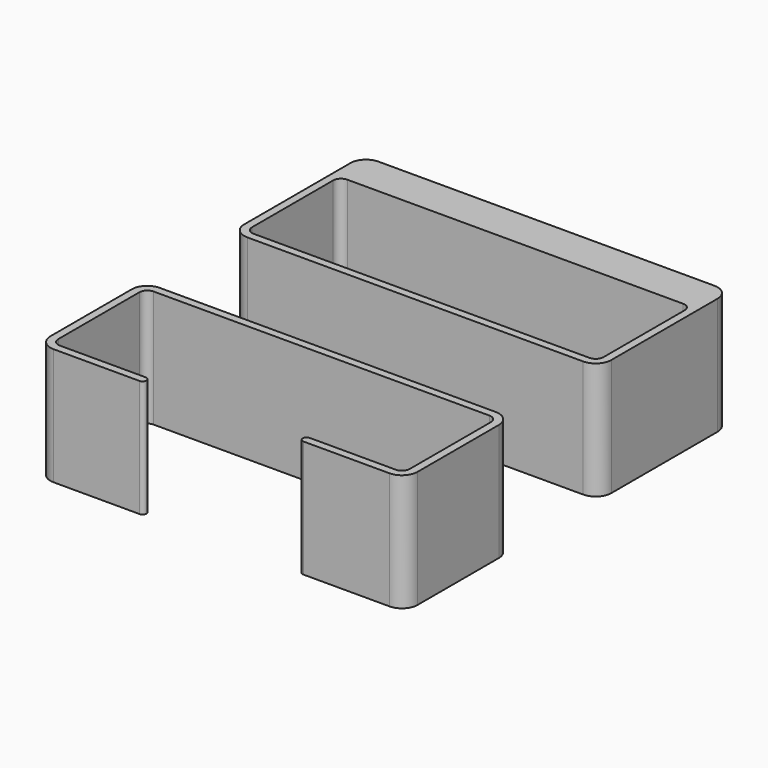
from build123d import *

# Parameters (mm, degrees)
PAD_DEPTH    = 30
PAD001_DEPTH = 30


with BuildPart() as open:
    # Sketch → Pad (new body)
    with BuildSketch(Plane.XY):
        with BuildLine():
            ThreePointArc((-43, 0), (-44.414214, -0.585786), (-45, -2))
            Line((-45, -2), (-45, -28))
            ThreePointArc((-45, -28), (-44.414214, -29.414214), (-43, -30))
            Line((-43, -30), (-21, -30))
            ThreePointArc((-21, -32), (-20, -31), (-21, -30))
            Line((-21, -32), (-43, -32))
            ThreePointArc((-47, -28), (-45.828427, -30.828427), (-43, -32))
            Line((-47, -28), (-47, -2))
            ThreePointArc((-43, 2), (-45.828427, 0.828427), (-47, -2))
            Line((-43, 2), (43, 2))
            ThreePointArc((47, -2), (45.828427, 0.828427), (43, 2))
            Line((47, -28), (47, -2))
            ThreePointArc((42.999985, -32), (45.828422, -30.828432), (47, -28))
            Line((20.999985, -32), (42.999985, -32))
            ThreePointArc((20.999985, -30), (19.999976, -31), (20.999985, -32))
            Line((42.999985, -30), (20.999985, -30))
            ThreePointArc((42.999985, -30), (44.414208, -29.414219), (45, -28))
            Line((45, -2), (45, -28))
            ThreePointArc((45, -2), (44.414214, -0.585786), (43, 0))
            Line((-43, 0), (43, 0))
        make_face()
    extrude(amount=PAD_DEPTH)


with BuildPart() as closed:
    # Sketch001 → Pad001 (new body)
    with BuildSketch(Plane.XY):
        with BuildLine():
            ThreePointArc((-47, 34), (-45.828427, 31.171573), (-43, 30))
            Line((-43, 30), (43, 30))
            ThreePointArc((43, 30), (45.828427, 31.171573), (47, 34))
            Line((47, 34), (47, 67.999984))
            ThreePointArc((47, 67.999984), (45.828433, 70.828421), (43, 72))
            Line((-43, 72), (43, 72))
            ThreePointArc((-43, 72), (-45.828433, 70.828421), (-47, 67.999984))
            Line((-47, 34), (-47, 67.999984))
        make_face()
        with BuildLine():
            ThreePointArc((-43, 62), (-44.414214, 61.414214), (-45, 60))
            Line((-45, 60), (-45, 34))
            ThreePointArc((-45, 34), (-44.414214, 32.585786), (-43, 32))
            Line((-43, 32), (43, 32))
            ThreePointArc((43, 32), (44.414214, 32.585786), (45, 34))
            Line((45, 60), (45, 34))
            ThreePointArc((45, 60), (44.414214, 61.414214), (43, 62))
            Line((-43, 62), (43, 62))
        make_face(mode=Mode.SUBTRACT)
    extrude(amount=PAD001_DEPTH)


solid = Compound([open.part, closed.part])
